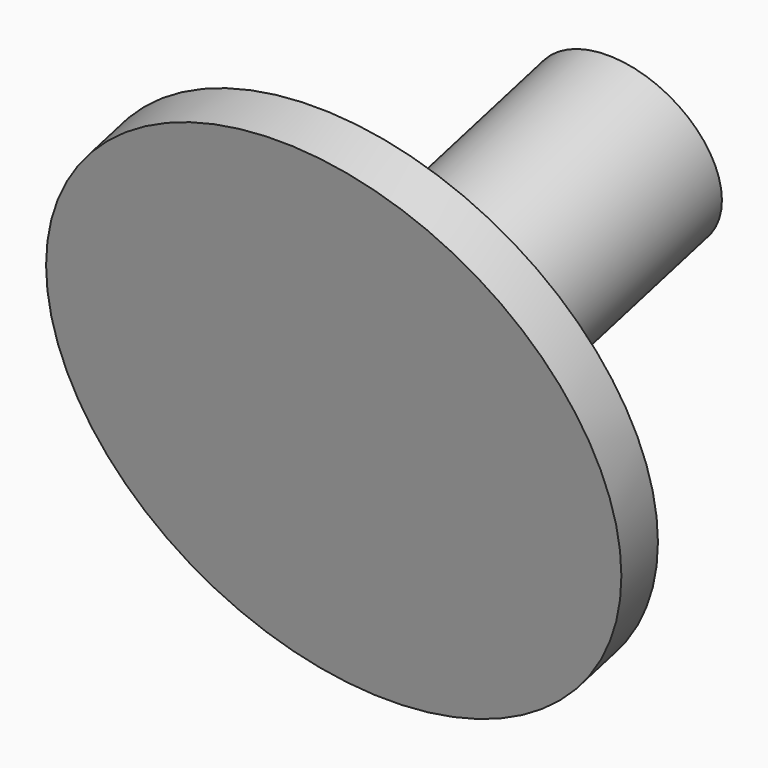
from build123d import *

# Parameters (mm, degrees)
F2_R     = 38.1
F3_DEPTH = 6.35
F6_R     = 12.7
F6_R_2   = 9.525
F7_DEPTH = 50.8
F9_DEPTH = 25.4


with BuildPart() as f3:
    # F2 (on face) → F3 (new body)
    with BuildSketch(Plane(origin=(0, 0, 0), x_dir=(-1, 0, 0), z_dir=(0, 0.970296, 0.241922))):
        Circle(F2_R)
    extrude(amount=F3_DEPTH)

    # F6 (on face) → F7 (join)
    with BuildSketch(Plane(origin=(0, 0, 0), x_dir=(-1, 0, 0), z_dir=(0, 0.970296, 0.241922))):
        Circle(F6_R)
        Circle(F6_R_2, mode=Mode.SUBTRACT)
    extrude(amount=F7_DEPTH)

    # F8 (on Right) → F9 (cut)
    with BuildSketch(Plane.YZ):
        Polygon((3.551053, -14.242495), (-5.652468, 22.670809), (-19.892405, 18.754688), (-9.609196, -17.931353), align=None)
    extrude(amount=-F9_DEPTH, mode=Mode.SUBTRACT)


solid = f3.part
